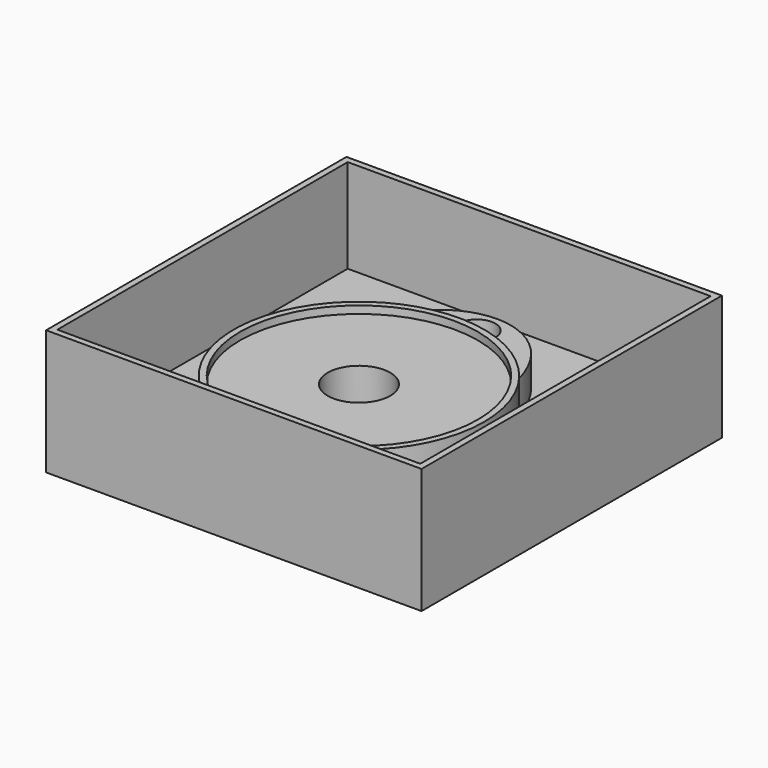
from build123d import *

# Parameters (mm, degrees)
SKETCH_R             = 20
PAD_DEPTH            = 7
SKETCH001_R          = 3
PAD001_DEPTH         = 5
SKETCH002_R          = 20
SKETCH002_R_2        = 19
PAD002_DEPTH         = 8.2
SKETCH003_W          = 60
SKETCH003_H          = 60
PAD003_DEPTH         = 5
SKETCH004_W          = 60
SKETCH004_H          = 60
SKETCH004_W_2        = 58
SKETCH004_H_2        = 58
PAD004_DEPTH         = 15
SKETCH006_R          = 3
POCKET_DEPTH         = 4
SKETCH005_R          = 5
POCKET001_DEPTH      = 5.001
POCKET001_DEPTH_BACK = -15.001


with BuildPart() as part:
    # Sketch → Pad (new body)
    with BuildSketch(Plane.XY):
        Circle(SKETCH_R)
    extrude(amount=PAD_DEPTH)

    # Sketch001 → Pad001 (join)
    with BuildSketch(Plane.XY):
        with BuildLine():
            add(Edge.make_bspline(
                [(-12.484701, 15.624732), (-10.829835, 23.483566), (0, 31.619604), (10.829835, 23.483566), (12.484701, 15.624732)],
                knots=[0, 0, 0, 0, 0.5, 1, 1, 1, 1], degree=3))
            Line((12.484701, 15.624732), (-12.484701, 15.624732))
        make_face()
        with Locations((0, 23.512977)):
            Circle(SKETCH001_R, mode=Mode.SUBTRACT)
    extrude(amount=PAD001_DEPTH)

    # Sketch002 → Pad002 (join)
    with BuildSketch(Plane.XY):
        Circle(SKETCH002_R)
        Circle(SKETCH002_R_2, mode=Mode.SUBTRACT)
    extrude(amount=PAD002_DEPTH)

    # Sketch003 → Pad003 (join)
    with BuildSketch(Plane.XY):
        with Locations((0, 5)):
            Rectangle(SKETCH003_W, SKETCH003_H)
    extrude(amount=-PAD003_DEPTH)

    # Sketch004 → Pad004 (join)
    with BuildSketch(Plane.XY):
        with Locations((0, 5)):
            Rectangle(SKETCH004_W, SKETCH004_H)
        with Locations((0, 5)):
            Rectangle(SKETCH004_W_2, SKETCH004_H_2, mode=Mode.SUBTRACT)
    extrude(amount=PAD004_DEPTH)

    # Sketch006 → Pocket (cut)
    with BuildSketch(Plane.XY):
        with Locations((0, 23.512977)):
            Circle(SKETCH006_R)
    extrude(amount=-POCKET_DEPTH, mode=Mode.SUBTRACT)

    # Sketch005 → Pocket001 (cut, two sides)
    with BuildSketch(Plane.XY) as pocket001_sk:
        Circle(SKETCH005_R)
    extrude(amount=-POCKET001_DEPTH, mode=Mode.SUBTRACT)
    extrude(pocket001_sk.sketch, amount=-POCKET001_DEPTH_BACK, mode=Mode.SUBTRACT)


solid = part.part
